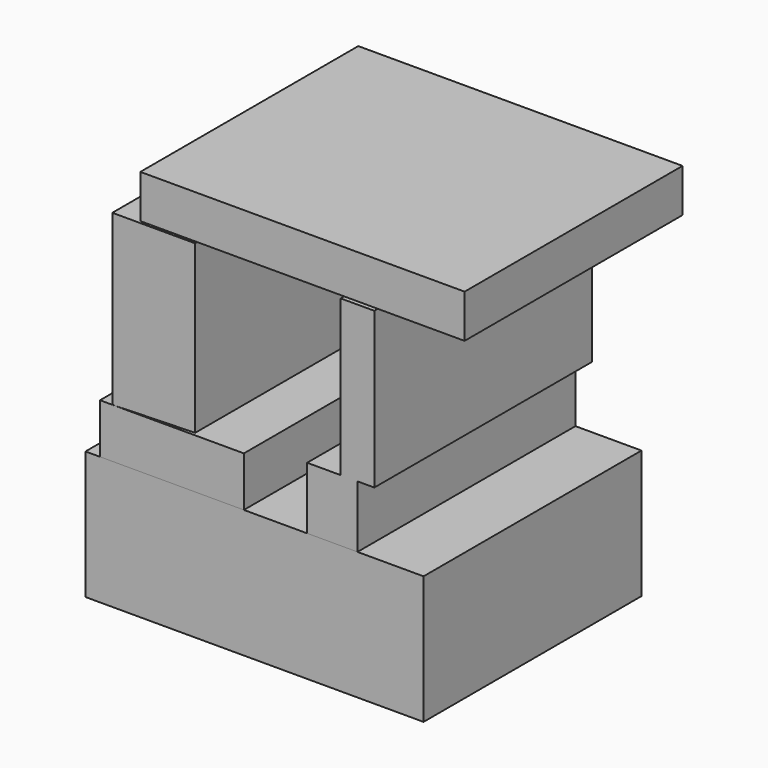
from build123d import *

# Parameters (mm, degrees)
F0_W      = 94.571505
F0_H      = 35.855751
F1_DEPTH  = 76.2
F2_W      = 40.239863
F2_H      = 13.935206
F3_DEPTH  = 76.2
F5_DEPTH  = 76.2
F6_W      = 90.707308
F6_H      = 12.12218
F7_DEPTH  = 76.2
F9_DEPTH  = 76.2
F10_DEPTH = 76.2


with BuildPart() as f1:
    # F0 (on Front) → F1 (new body)
    with BuildSketch(Plane.XZ):
        with Locations((2.974929, -17.927875)):
            Rectangle(F0_W, F0_H)
    extrude(amount=F1_DEPTH)


with BuildPart() as f3:
    # F2 (on Front) → F3 (new body)
    with BuildSketch(Plane.XZ):
        with Locations((-20.119931, 6.967603)):
            Rectangle(F2_W, F2_H)
    extrude(amount=F3_DEPTH)


with BuildPart() as f5:
    # F4 (on Front) → F5 (new body)
    with BuildSketch(Plane.XZ):
        Polygon((-36.795206, 61.220959), (-36.795206, 13.935206), (-13.622055, 14.561508), (-13.622055, 61.220959), align=None)
    extrude(amount=F5_DEPTH)


with BuildPart() as f7:
    # F6 (on Front) → F7 (new body)
    with BuildSketch(Plane.XZ):
        with Locations((16.391584, 67.777896)):
            Rectangle(F6_W, F6_H)
    extrude(amount=F7_DEPTH)


with BuildPart() as f9:
    # F8 (on Front) → F9 (new body)
    with BuildSketch(Plane.XZ):
        Polygon((36.482055, 60.907811), (27.087534, 60.907811), (27.087534, 17.379863), (31.784794, 17.379863), (36.482055, 17.379863), align=None)
    extrude(amount=F9_DEPTH)


with BuildPart() as f10:
    # F8 (on Front) → F10 (new body)
    with BuildSketch(Plane.XZ):
        Polygon((36.482055, 60.907811), (27.087534, 60.907811), (27.087534, 17.379863), (31.784794, 17.379863), (36.482055, 17.379863), align=None)
        Polygon((31.784794, 17.379863), (27.087534, 17.379863), (17.693011, 17.379863), (17.693011, 0), (31.784794, 0), align=None)
    extrude(amount=F10_DEPTH)


solid = Compound([f1.part, f3.part, f5.part, f7.part, f9.part, f10.part])
